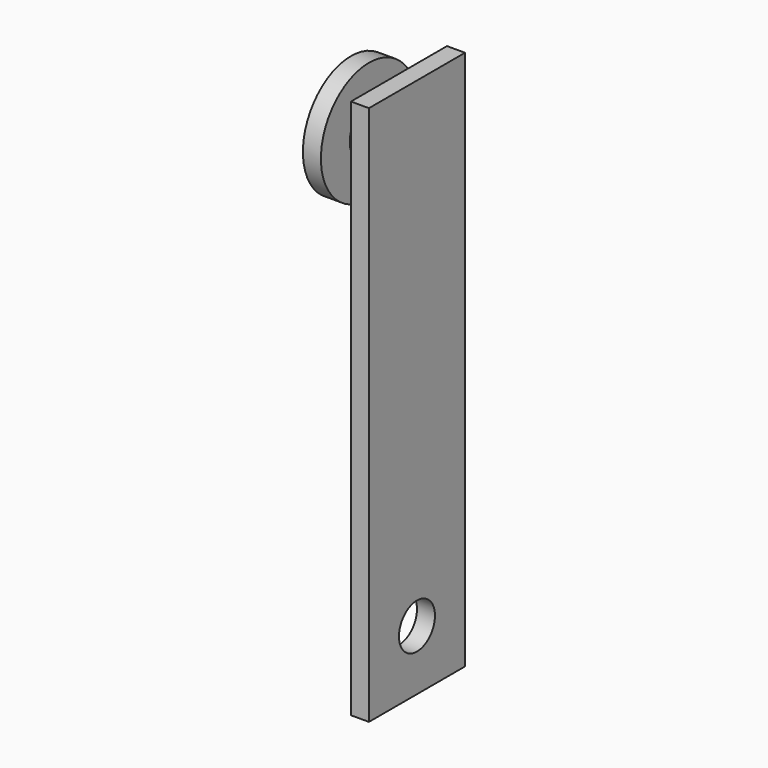
from build123d import *

# Parameters (mm, degrees)
F0_W     = 20
F0_H     = 90
F0_R     = 3.75
F0_R_2   = 4
F1_DEPTH = 3
F2_DEPTH = 5
F4_R     = 10
F5_DEPTH = 3


with BuildPart() as f1:
    # F0 (on Right) → F1 (new body)
    with BuildSketch(Plane.YZ):
        with Locations((10, 45)):
            Rectangle(F0_W, F0_H)
        with Locations((10, 10)):
            Circle(F0_R, mode=Mode.SUBTRACT)
        with Locations((10, 80)):
            Circle(F0_R_2, mode=Mode.SUBTRACT)
        with Locations((10, 80)):
            Circle(F0_R_2)
    extrude(amount=F1_DEPTH)

    # F0 (on Right) → F2 (join)
    with BuildSketch(Plane.YZ):
        with Locations((10, 80)):
            Circle(F0_R_2)
    extrude(amount=-F2_DEPTH)

    # F4 (on offset) → F5 (join)
    with BuildSketch(Plane.YZ.offset(-5)):
        with Locations((10, 80)):
            Circle(F4_R)
    extrude(amount=-F5_DEPTH)


solid = f1.part
